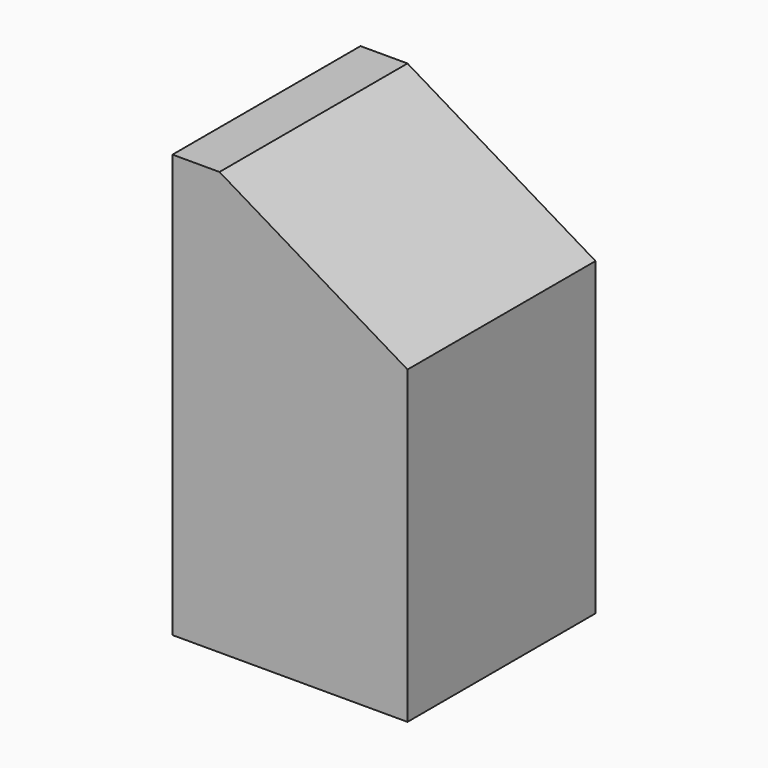
from build123d import *

# Parameters (mm, degrees)
SKETCH012_W     = 16
SKETCH012_H     = 16
PAD008_DEPTH    = 28.8
POCKET004_DEPTH = 16
PAD131_DEPTH    = 16


with BuildPart() as part:
    # Sketch012 (on Face88 of Binder004) → Pad008 (new body)
    with BuildSketch(Plane.XY.offset(-28.8)):
        with Locations((135.8, 32)):
            Rectangle(SKETCH012_W, SKETCH012_H)
    extrude(amount=PAD008_DEPTH)

    # Sketch013 (on Face2 of Pad008) → Pocket004 (cut)
    with BuildSketch(Plane.XZ.offset(-24)):
        Polygon((143.8, -9.6), (127.8, 0), (143.8, 0), align=None)
    extrude(amount=-POCKET004_DEPTH, mode=Mode.SUBTRACT)

    # Sketch131 (on Face2 of Pocket004) → Pad131 (join)
    with BuildSketch(Plane(origin=(0, 40, 0), x_dir=(-1, 0, 0), z_dir=(0, 1, 0))):
        Polygon((-127.8, 0), (-131, 0), (-143.8, -7.68), (-143.8, -10.88), (-131, -3.2), (-127.8, -3.2), align=None)
    extrude(amount=-PAD131_DEPTH)


solid = part.part
